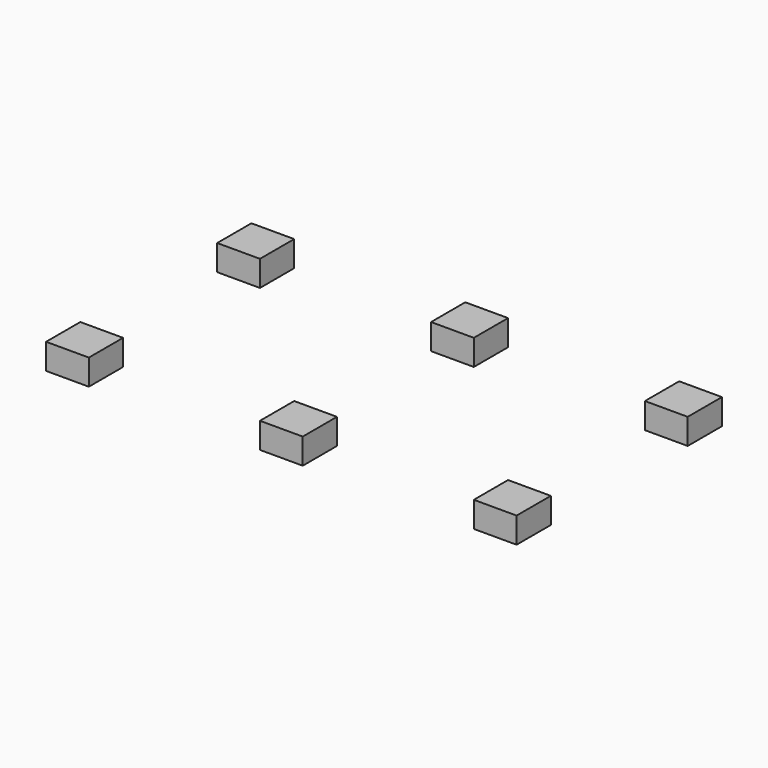
from build123d import *

# Parameters (mm, degrees)
SKETCH_W             = 1000
SKETCH_H             = 1000
EXTRUDE_SKETCH_DEPTH = 600
ARRAY_X_COUNT        = 3
ARRAY_X_PITCH        = 5000
ARRAY_Y_COUNT        = 2
ARRAY_Y_PITCH        = 5000


with BuildPart() as part:
    # Sketch → Extrude_Sketch (new body)
    with BuildSketch(Plane.XY):
        with Locations((500, 500)):
            Rectangle(SKETCH_W, SKETCH_H)
    extrude(amount=EXTRUDE_SKETCH_DEPTH)

    # Array X: part ×3


with BuildPart() as part_1:
    add(part.part)
    with Locations(*[(i * ARRAY_X_PITCH, 0, 0) for i in range(1, ARRAY_X_COUNT)]):
        add(part.part)

    # Array Y: part ×2


with BuildPart() as part_2:
    add(part_1.part)
    with Locations(*[(0, i * ARRAY_Y_PITCH, 0) for i in range(1, ARRAY_Y_COUNT)]):
        add(part_1.part)


solid = part_2.part
